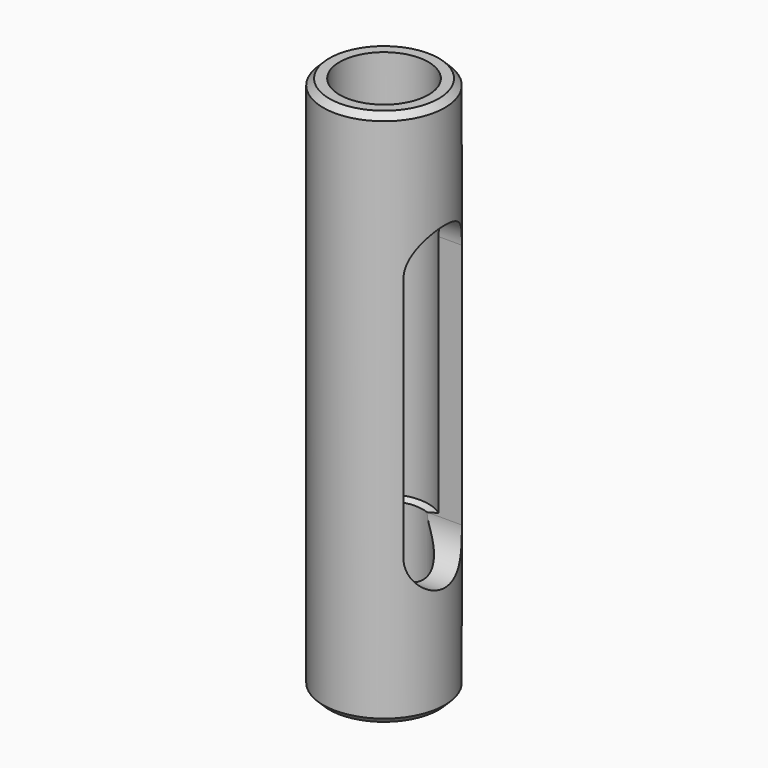
from build123d import *

# Parameters (mm, degrees)
F2_SIZE  = 0.79375
F4_DEPTH = 12.7


with BuildPart() as f1:
    # F0 (on Front) → F1 (revolve)
    with BuildSketch(Plane.XZ):
        Polygon((7.9375, 0), (5.800725, 0), (5.800725, -50.8), (5.1, -51.221038), (5.1, -70.271038), (7.9375, -70.271038), align=None)
    revolve(axis=Axis((0, 0, -3.067858), (0, 0, -1)))

    # F2
    f2_edges = [f1.edges().sort_by_distance(p)[0] for p in [
        (-7.9375, 0, 0),
        (-7.9375, 0, -70.271038),
    ]]
    chamfer(f2_edges, length=F2_SIZE)

    # F3 (on Right) → F4 (cut, symmetric)
    with BuildSketch(Plane.YZ):
        with BuildLine():
            ThreePointArc((-4.7625, -51.221038), (0, -55.983538), (4.7625, -51.221038))
            Line((4.7625, -51.221038), (4.7625, -19.05))
            ThreePointArc((4.7625, -19.05), (0, -14.2875), (-4.7625, -19.05))
            Line((-4.7625, -19.05), (-4.7625, -51.221038))
        make_face()
    extrude(amount=F4_DEPTH, both=True, mode=Mode.SUBTRACT)


solid = f1.part
